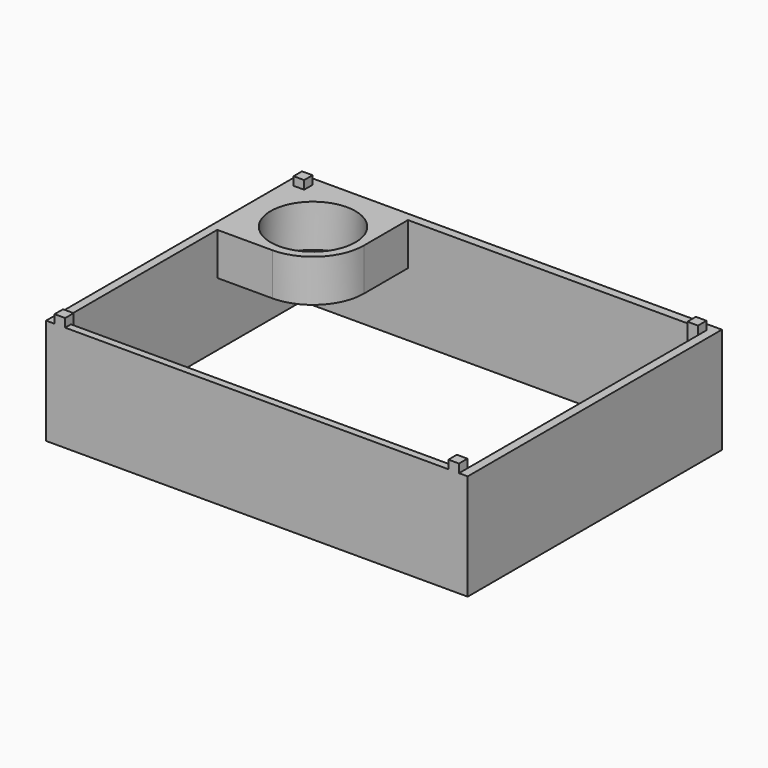
from build123d import *

# Parameters (mm, degrees)
F3_DEPTH = 6
F4_DEPTH = 50
F1_W     = 5
F1_H     = 5
F6_DEPTH = 54
F7_DEPTH = 54
F2_R     = 20
F8_DEPTH = 50
F9_DEPTH = 30


with BuildPart() as f3:
    # F2 (on Top) → F3 (new body)
    with BuildSketch(Plane.XY):
        with BuildLine():
            Line((-45.5, 75), (-99.5, 75))
            Line((-99.5, 75), (-99.5, 21))
            Line((-99.5, 21), (-69.5, 21))
            ThreePointArc((-69.5, 21), (-86.470563, 61.970563), (-45.5, 45))
            Line((-45.5, 45), (-45.5, 75))
        make_face()
        with BuildLine():
            Line((-20, 75), (-45.5, 75))
            Line((-45.5, 75), (-45.5, 45))
            ThreePointArc((-45.5, 45), (-52.529437, 28.029437), (-69.5, 21))
            Line((-69.5, 21), (-99.5, 21))
            Line((-99.5, 21), (-99.5, -75))
            Line((-99.5, -75), (99.5, -75))
            Line((99.5, -75), (99.5, 75))
            Line((99.5, 75), (20, 75))
            Line((20, 75), (-20, 75))
        make_face()
    extrude(amount=F3_DEPTH)

    # F1 (on Top) → F4 (join)
    with BuildSketch(Plane.XY):
        Polygon((99.5, 75), (-99.5, 75), (-99.5, -75), (-95.5, -75), (-95.5, -70), (-95.5, 66), (-95.5, 71), (-90.5, 71), (0, 71), (90.394951, 71), (95.394951, 71), (95.394951, 66), (95.394951, -70), (95.394951, -75), (99.5, -75), align=None)
        Polygon((-95.5, -70), (-95.5, -75), (-90.5, -75), (-90.5, -71.581401), (-90.5, -70), align=None)
        Polygon((90.394951, -75), (95.394951, -75), (95.394951, -70), (90.394951, -70), (90.394951, -71.581401), align=None)
        Polygon((-90.5, -71.581401), (-90.5, -75), (0, -75), (90.394951, -75), (90.394951, -71.581401), align=None)
    extrude(amount=F4_DEPTH)

    # F1 (on Top) → F6 (join)
    with BuildSketch(Plane.XY):
        with Locations((-93, 68.5)):
            Rectangle(F1_W, F1_H)
    extrude(amount=F6_DEPTH)

    # F1 (on Top) → F7 (join)
    with BuildSketch(Plane.XY):
        with Locations((92.894951, 68.5)):
            Rectangle(F1_W, F1_H)
        Polygon((90.394951, -75), (95.394951, -75), (95.394951, -70), (90.394951, -70), (90.394951, -71.581401), align=None)
        Polygon((-95.5, -70), (-95.5, -75), (-90.5, -75), (-90.5, -71.581401), (-90.5, -70), align=None)
    extrude(amount=F7_DEPTH)

    # F2 (on Top) → F8 (join)
    with BuildSketch(Plane.XY):
        with BuildLine():
            ThreePointArc((-69.5, 21), (-52.529437, 28.029437), (-45.5, 45))
            ThreePointArc((-45.5, 45), (-86.470563, 61.970563), (-69.5, 21))
        make_face()
        with Locations((-69.5, 45)):
            Circle(F2_R, mode=Mode.SUBTRACT)
        with BuildLine():
            Line((-45.5, 75), (-99.5, 75))
            Line((-99.5, 75), (-99.5, 21))
            Line((-99.5, 21), (-69.5, 21))
            ThreePointArc((-69.5, 21), (-86.470563, 61.970563), (-45.5, 45))
            Line((-45.5, 45), (-45.5, 75))
        make_face()
    extrude(amount=F8_DEPTH)

    # F1 (on Top) → F9 (cut)
    with BuildSketch(Plane.XY):
        Polygon((-95.5, 66), (-95.5, -70), (-90.5, -70), (-90.5, -71.581401), (90.394951, -71.581401), (90.394951, -70), (95.394951, -70), (95.394951, 66), (90.394951, 66), (90.394951, 71), (0, 71), (-90.5, 71), (-90.5, 66), align=None)
        with Locations((-93, 68.5)):
            Rectangle(F1_W, F1_H)
        with Locations((92.894951, 68.5)):
            Rectangle(F1_W, F1_H)
    extrude(amount=F9_DEPTH, mode=Mode.SUBTRACT)


solid = f3.part
